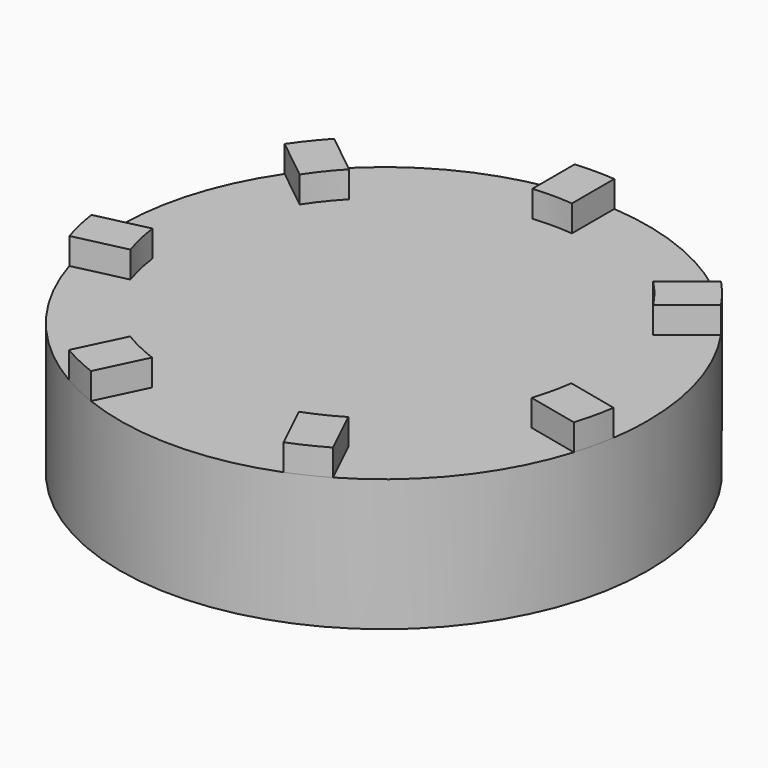
from build123d import *

# Parameters (mm, degrees)
F0_R     = 20
F1_DEPTH = 10
F3_DEPTH = 2
F4_COUNT = 7


with BuildPart() as f1:
    # F0 (on Top) → F1 (new body)
    with BuildSketch(Plane.XY):
        Circle(F0_R)
    extrude(amount=F1_DEPTH)

    # F2 (on face) → F3 (join)
    with BuildSketch(Plane.XY.offset(10)):
        with BuildLine():
            Line((1.5, 15.929532), (1.5, 19.943671))
            ThreePointArc((1.5, 19.943671), (0, 20), (-1.5, 19.943671))
            Line((-1.5, 19.943671), (-1.5, 15.929532))
            ThreePointArc((-1.5, 15.929532), (0, 16), (1.5, 15.929532))
        make_face()
    extrude(amount=F3_DEPTH)

    # F4: F1 ×7 about axis
    f4_axis = Axis((0, 0, 0), (0, 0, -1))


with BuildPart() as f1_1:
    add(f1.part)
    for i in range(1, F4_COUNT):
        add(f1.part.rotate(f4_axis, i * 360 / F4_COUNT))


solid = f1_1.part
